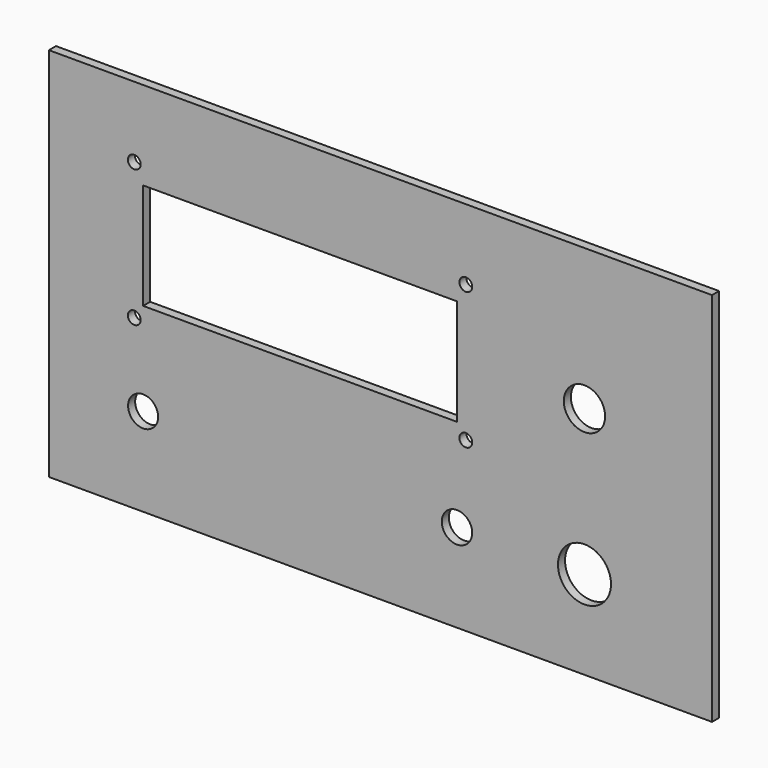
from build123d import *

# Parameters (mm, degrees)
F0_W     = 150
F0_H     = 85
F0_R     = 3.4
F0_R_2   = 1.45
F0_R_3   = 3.44
F0_R_4   = 6
F0_W_2   = 71
F0_H_2   = 24
F0_R_5   = 4.675
F1_DEPTH = 2


with BuildPart() as f1:
    # F0 (on Front) → F1 (new body)
    with BuildSketch(Plane.XZ):
        with Locations((-152.851582, -79.104053)):
            Rectangle(F0_W, F0_H)
        with Locations((-206.544898, -101.604053)):
            Circle(F0_R, mode=Mode.SUBTRACT)
        with Locations((-208.544898, -83.604053)):
            Circle(F0_R_2, mode=Mode.SUBTRACT)
        with Locations((-135.544898, -101.604053)):
            Circle(F0_R_3, mode=Mode.SUBTRACT)
        with Locations((-106.69824, -101.604053)):
            Circle(F0_R_4, mode=Mode.SUBTRACT)
        with Locations((-133.544898, -83.604053)):
            Circle(F0_R_2, mode=Mode.SUBTRACT)
        with Locations((-171.044898, -68.604053)):
            Rectangle(F0_W_2, F0_H_2, mode=Mode.SUBTRACT)
        with Locations((-208.544898, -52.604053)):
            Circle(F0_R_2, mode=Mode.SUBTRACT)
        with Locations((-106.69824, -68.604053)):
            Circle(F0_R_5, mode=Mode.SUBTRACT)
        with Locations((-133.544898, -52.604053)):
            Circle(F0_R_2, mode=Mode.SUBTRACT)
    extrude(amount=F1_DEPTH)


solid = f1.part
